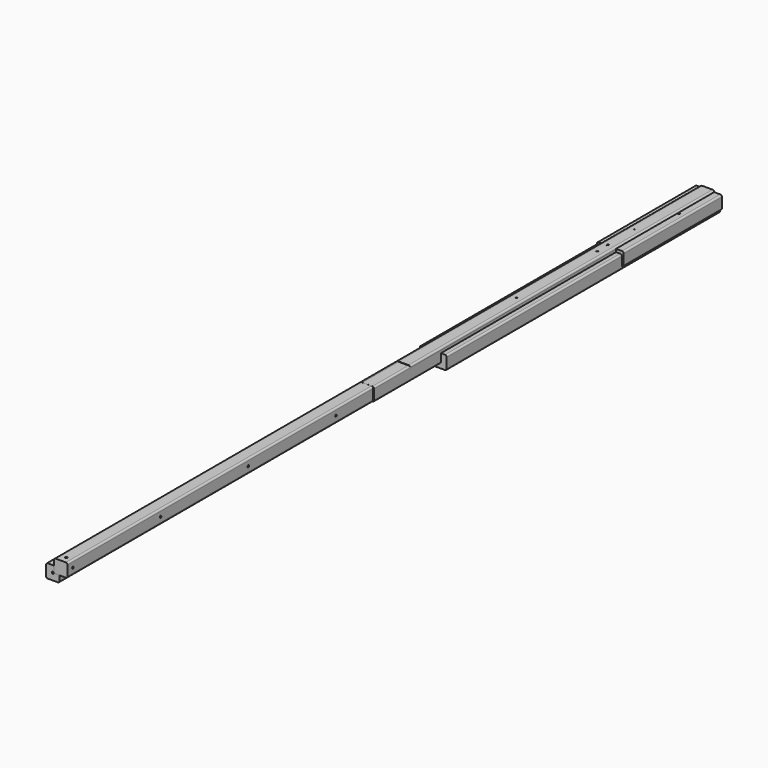
from build123d import *

# Parameters (mm, degrees)
F0_W         = 40
F0_H         = 40
F1_DEPTH     = 2400
F2_R         = 5
F6_D         = 6
F6_ON_F4_D   = 6
F6_ON_F3_D   = 6
F7_W         = 40
F7_H         = 40
F8_DEPTH     = 365
F9_R         = 5
F11_D        = 6
F12_W        = 40
F12_H        = 40
F13_DEPTH    = 1130
F14_R        = 5
F18_D        = 6
F18_ON_F17_D = 6
F18_ON_F15_D = 6
F19_W        = 40
F19_H        = 40
F20_DEPTH    = 2400
F21_R        = 5
F24_D        = 6
F24_ON_F23_D = 6
F25_W        = 40
F25_H        = 40
F26_DEPTH    = 1264
F27_R        = 5
F30_D        = 6
F30_ON_F29_D = 6
F31_W        = 80
F31_H        = 40
F32_DEPTH    = 365
F33_R        = 5
F36_D        = 6
F36_ON_F34_D = 6
F37_W        = 80
F37_H        = 40
F38_DEPTH    = 1016
F39_R        = 5
F41_D        = 6


with BuildPart() as f1:
    # F0 (on Front) → F1 (new body)
    with BuildSketch(Plane.XZ):
        with Locations((-58.717952935, 20)):
            Rectangle(F0_W, F0_H)
    extrude(amount=F1_DEPTH)

    # F2
    f2_edges = [f1.edges().sort_by_distance(p)[0] for p in [
        (-78.717953, -1200, 40),
        (-38.717953, -1200, 40),
        (-38.717953, -1200, 0),
        (-78.717953, -1200, 0),
    ]]
    fillet(f2_edges, radius=F2_R)

    # F6 (through all)
    with Locations(Plane.YZ.offset(-38.717952935)):
        with Locations((-20, 20), (-1076, 20), (-2380, 20)):
            Hole(F6_D / 2)

    # F6 on F4 (through all)
    with Locations(Plane.XY.offset(40)):
        with Locations((-58.717952935, -20), (-58.717952935, -1076), (-58.717952935, -1402), (-58.717952935, -1728), (-58.717952935, -2054), (-58.717952935, -2380)):
            Hole(F6_ON_F4_D / 2)

    # F6 on F3 (through all)
    with Locations(Plane.XZ.offset(2400)):
        with Locations((-58.717952935, 20)):
            Hole(F6_ON_F3_D / 2)


with BuildPart() as f8:
    # F7 (on Front) → F8 (new body)
    with BuildSketch(Plane.XZ):
        with Locations((-33.7404194288, 40.8450735632)):
            Rectangle(F7_W, F7_H)
    extrude(amount=F8_DEPTH)

    # F9
    f9_edges = [f8.edges().sort_by_distance(p)[0] for p in [
        (-53.740419, -182.5, 60.845074),
        (-13.740419, -182.5, 60.845074),
        (-13.740419, -182.5, 20.845074),
        (-53.740419, -182.5, 20.845074),
    ]]
    fillet(f9_edges, radius=F9_R)

    # F11 (through all)
    with Locations(Plane.XZ.offset(365)):
        with Locations((-33.7404194288, 40.8450735632)):
            Hole(F11_D / 2)


with BuildPart() as f13:
    # F12 (on Front) → F13 (new body)
    with BuildSketch(Plane.XZ):
        with Locations((-31.9963821676, 41.1913291959)):
            Rectangle(F12_W, F12_H)
    extrude(amount=F13_DEPTH)

    # F14
    f14_edges = [f13.edges().sort_by_distance(p)[0] for p in [
        (-51.996382, -565, 61.191329),
        (-11.996382, -565, 61.191329),
        (-11.996382, -565, 21.191329),
        (-51.996382, -565, 21.191329),
    ]]
    fillet(f14_edges, radius=F14_R)

    # F18 (through all)
    with Locations(Plane.XY.offset(61.1913291959)):
        with Locations((-31.9963821676, -270), (-31.9963821676, -710), (-31.9963821676, -370), (-31.9963821676, -410)):
            Hole(F18_D / 2)

    # F18 on F17 (through all)
    with Locations(Plane.YZ.offset(-11.9963821676)):
        with Locations((-270, 41.1913291959), (-710, 41.1913291959)):
            Hole(F18_ON_F17_D / 2)

    # F18 on F15 (through all)
    with Locations(Plane.XZ.offset(1130)):
        with Locations((-31.9963821676, 41.1913291959)):
            Hole(F18_ON_F15_D / 2)


with BuildPart() as f20:
    # F19 (on Front) → F20 (new body)
    with BuildSketch(Plane.XZ):
        with Locations((-34.9478281569, 39.9368531752)):
            Rectangle(F19_W, F19_H)
    extrude(amount=F20_DEPTH)

    # F21
    f21_edges = [f20.edges().sort_by_distance(p)[0] for p in [
        (-54.947828, -1200, 59.936853),
        (-14.947828, -1200, 59.936853),
        (-14.947828, -1200, 19.936853),
        (-54.947828, -1200, 19.936853),
    ]]
    fillet(f21_edges, radius=F21_R)

    # F24 (through all)
    with Locations(Plane.YZ.offset(-14.9478281569)):
        with Locations((-2380, 39.9368531752), (-2054, 39.9368531752), (-1728, 39.9368531752), (-1402, 39.9368531752), (-1076, 39.9368531752), (-750, 39.9368531752), (-424, 39.9368531752), (-98, 39.9368531752), (-20, 39.9368531752)):
            Hole(F24_D / 2)

    # F24 on F23 (through all)
    with Locations(Plane.XY.offset(59.9368531752)):
        with Locations((-34.9478281569, -2380), (-34.9478281569, -1076), (-34.9478281569, -20)):
            Hole(F24_ON_F23_D / 2)


with BuildPart() as f26:
    # F25 (on Front) → F26 (new body)
    with BuildSketch(Plane.XZ):
        with Locations((-31.9963814691, 40.1338321094)):
            Rectangle(F25_W, F25_H)
    extrude(amount=F26_DEPTH)

    # F27
    f27_edges = [f26.edges().sort_by_distance(p)[0] for p in [
        (-11.996381, -632, 60.133832),
        (-11.996381, -632, 20.133832),
        (-51.996381, -632, 20.133832),
        (-51.996381, -632, 60.133832),
    ]]
    fillet(f27_edges, radius=F27_R)

    # F30 (through all)
    with Locations(Plane.XZ.offset(1264)):
        with Locations((-31.9963814691, 40.1338321094)):
            Hole(F30_D / 2)

    # F30 on F29 (through all)
    with Locations(Plane.YZ.offset(-11.9963814691)):
        with Locations((-958, 40.1338321094), (-632, 40.1338321094), (-306, 40.1338321094)):
            Hole(F30_ON_F29_D / 2)


with BuildPart() as f32:
    # F31 (on Front) → F32 (new body)
    with BuildSketch(Plane.XZ):
        with Locations((-28.9825820364, 36.2042564504)):
            Rectangle(F31_W, F31_H)
    extrude(amount=F32_DEPTH)

    # F33
    f33_edges = [f32.edges().sort_by_distance(p)[0] for p in [
        (-68.982582, -182.5, 56.204256),
        (11.017418, -182.5, 56.204256),
        (11.017418, -182.5, 16.204256),
        (-68.982582, -182.5, 16.204256),
    ]]
    fillet(f33_edges, radius=F33_R)

    # F36 (through all)
    with Locations(Plane.XY.offset(56.2042564504)):
        with Locations((-48.9825820364, -135), (-8.9825820364, -135)):
            Hole(F36_D / 2)

    # F36 on F34 (through all)
    with Locations(Plane.XZ.offset(365)):
        with Locations((-48.9825820364, 36.2042564504), (-8.9825820364, 36.2042564504)):
            Hole(F36_ON_F34_D / 2)


with BuildPart() as f38:
    # F37 (on Front) → F38 (new body)
    with BuildSketch(Plane.XZ):
        with Locations((-34.5854116604, 27.4868717937)):
            Rectangle(F37_W, F37_H)
    extrude(amount=F38_DEPTH)

    # F39
    f39_edges = [f38.edges().sort_by_distance(p)[0] for p in [
        (-74.585412, -508, 47.486872),
        (5.414588, -508, 47.486872),
        (5.414588, -508, 7.486872),
        (-74.585412, -508, 7.486872),
    ]]
    fillet(f39_edges, radius=F39_R)

    # F41 (through all)
    with Locations(Plane.XZ.offset(1016)):
        with Locations((-54.5854116604, 27.4868717937), (-14.5854116604, 27.4868717937)):
            Hole(F41_D / 2)


solid = Compound([f1.part, f8.part, f13.part, f20.part, f26.part, f32.part, f38.part])
